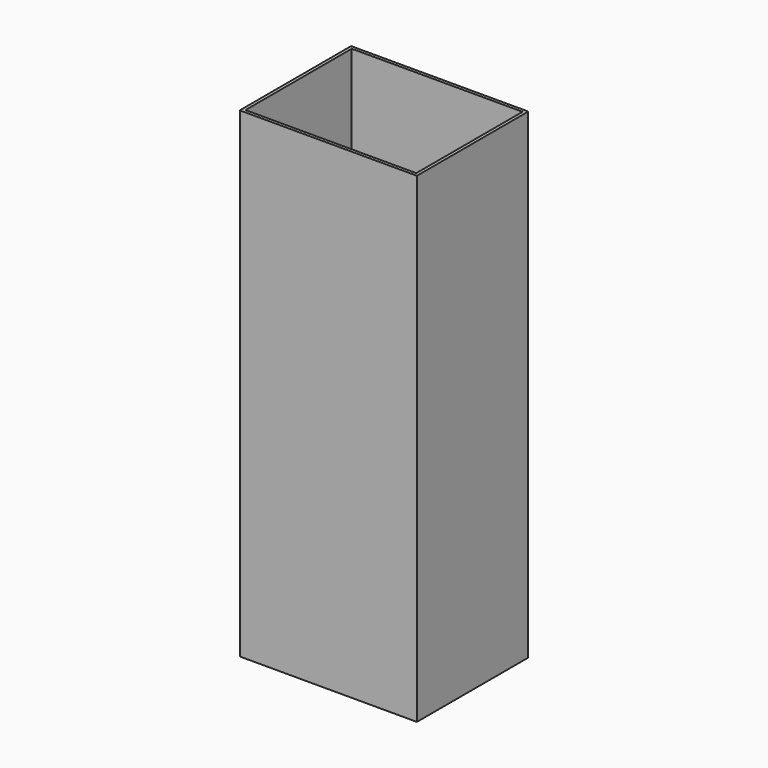
from build123d import *

# Parameters (mm, degrees)
F0_W     = 355.6
F0_H     = 279.4
F1_DEPTH = 965.2
F2_T     = -6.35
F4_START = -196.85
F3_W     = 336.55
F3_H     = 260.35
F4_DEPTH = 6.35


with BuildPart() as f1:
    # F0 (on Top) → F1 (new body)
    with BuildSketch(Plane.XY):
        Rectangle(F0_W, F0_H)
    extrude(amount=F1_DEPTH)

    # F2
    f2_openings = [f1.faces().sort_by_distance(p)[0] for p in [
        (0, 0, 965.2),
    ]]
    offset(amount=F2_T, openings=f2_openings)


with BuildPart() as f4:
    # F3 (on face) → F4 (new body)
    with BuildSketch(Plane.XY.offset(965.2).offset(F4_START)):
        Rectangle(F3_W, F3_H)
    extrude(amount=-F4_DEPTH)


solid = Compound([f1.part, f4.part])
